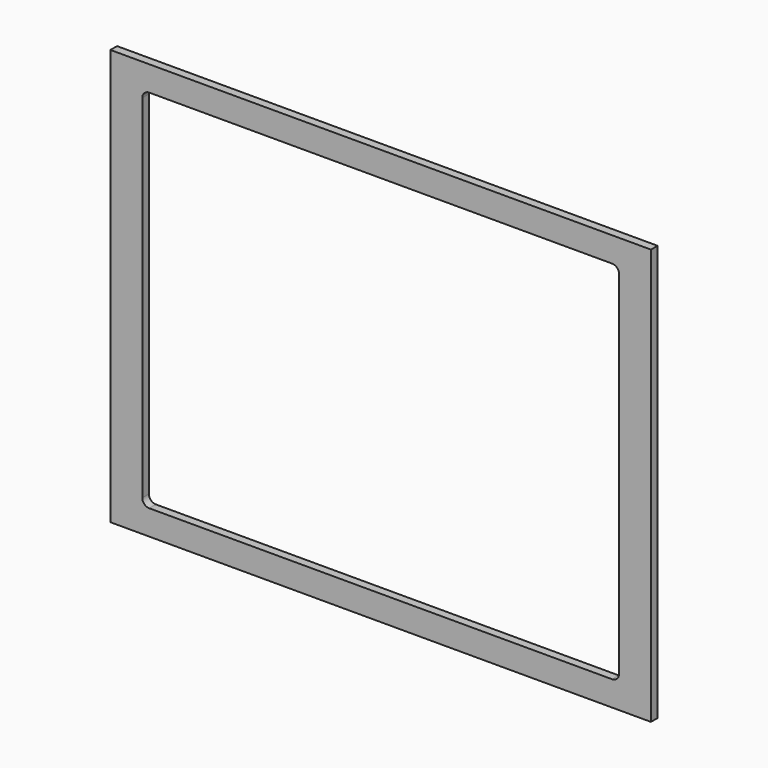
from build123d import *

# Parameters (mm, degrees)
F0_W     = 195
F0_H     = 150
F0_W_2   = 172
F0_H_2   = 132
F1_DEPTH = 3
F2_R     = 2.5


with BuildPart() as f1:
    # F0 (on Front) → F1 (new body)
    with BuildSketch(Plane.XZ):
        Rectangle(F0_W, F0_H)
        Rectangle(F0_W_2, F0_H_2, mode=Mode.SUBTRACT)
    extrude(amount=-F1_DEPTH)

    # F2
    f2_edges = [f1.edges().sort_by_distance(p)[0] for p in [
        (-86, 1.5, -66),
        (86, 1.5, -66),
        (86, 1.5, 66),
        (-86, 1.5, 66),
    ]]
    fillet(f2_edges, radius=F2_R)


solid = f1.part
